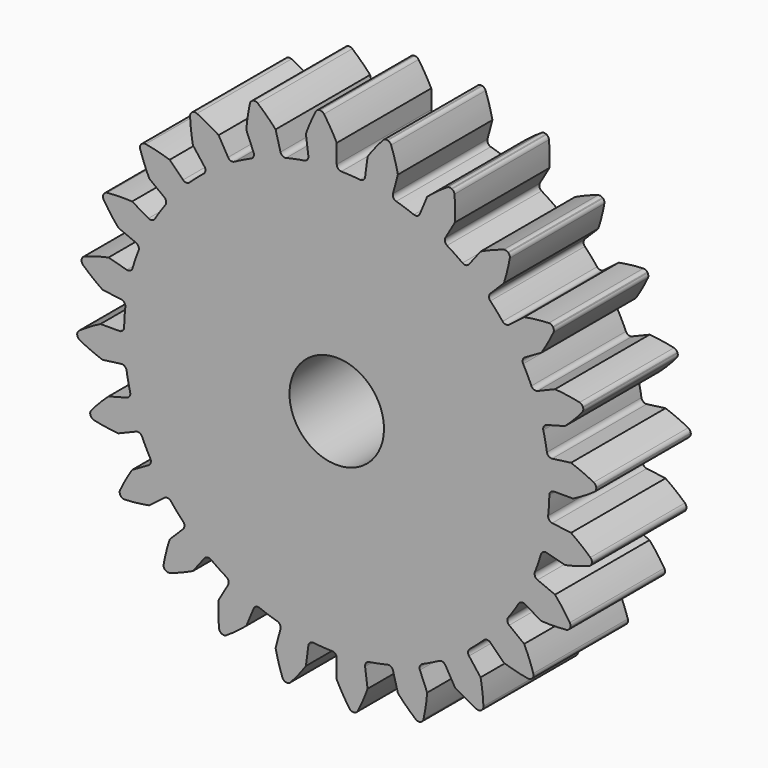
from build123d import *

# Parameters (mm, degrees)
F1_DEPTH = 12.7
F2_R     = 5.08
F3_DEPTH = 12.701


with BuildPart() as f1:
    # F0 (on Front) → F1 (new body)
    with BuildSketch(Plane.XZ):
        with BuildLine():
            ThreePointArc((-3.049415, 23.162608), (-3.146708, 22.791449), (-3.475829, 22.594208))
            ThreePointArc((-3.475829, 22.594208), (-4.459765, 22.420752), (-5.435182, 22.204468))
            ThreePointArc((-5.435182, 22.204468), (-7.348106, 21.646823), (-9.205204, 20.924718))
            ThreePointArc((-9.205204, 20.924718), (-10.110719, 20.502511), (-10.996922, 20.04114))
            ThreePointArc((-10.996922, 20.04114), (-12.700336, 19.007395), (-14.30726, 17.829243))
            ThreePointArc((-14.30726, 17.829243), (-15.072645, 17.187058), (-15.80924, 16.512042))
            ThreePointArc((-15.80924, 16.512042), (-17.187058, 15.072645), (-18.434299, 13.518735))
            ThreePointArc((-18.434299, 13.518735), (-19.007395, 12.700336), (-19.544184, 11.857676))
            ThreePointArc((-19.544184, 11.857676), (-20.502511, 10.110719), (-21.305072, 8.286948))
            ThreePointArc((-21.305072, 8.286948), (-21.646823, 7.348106), (-21.947224, 6.395228))
            ThreePointArc((-21.947224, 6.395228), (-22.420752, 4.459765), (-22.723939, 2.490419))
            ThreePointArc((-22.723939, 2.490419), (-22.811055, 1.495116), (-22.854598, 0.496957))
            ThreePointArc((-22.854598, 0.496957), (-22.811055, -1.495116), (-22.594208, -3.475829))
            ThreePointArc((-22.594208, -3.475829), (-22.420752, -4.459765), (-22.204468, -5.435182))
            ThreePointArc((-22.204468, -5.435182), (-21.646823, -7.348106), (-20.924718, -9.205204))
            ThreePointArc((-20.924718, -9.205204), (-20.502511, -10.110719), (-20.04114, -10.996922))
            ThreePointArc((-20.04114, -10.996922), (-19.007395, -12.700336), (-17.829243, -14.30726))
            ThreePointArc((-17.829243, -14.30726), (-17.187058, -15.072645), (-16.512042, -15.80924))
            ThreePointArc((-16.512042, -15.80924), (-15.072645, -17.187058), (-13.518735, -18.434299))
            ThreePointArc((-13.518735, -18.434299), (-12.700336, -19.007395), (-11.857676, -19.544184))
            ThreePointArc((-11.857676, -19.544184), (-10.110719, -20.502511), (-8.286948, -21.305072))
            ThreePointArc((-8.286948, -21.305072), (-7.348106, -21.646823), (-6.395228, -21.947224))
            ThreePointArc((-6.395228, -21.947224), (-4.459765, -22.420752), (-2.490419, -22.723939))
            ThreePointArc((-2.490419, -22.723939), (-1.495116, -22.811055), (-0.496957, -22.854598))
            ThreePointArc((-0.496957, -22.854598), (1.495116, -22.811055), (3.475829, -22.594208))
            ThreePointArc((3.475829, -22.594208), (4.459765, -22.420752), (5.435182, -22.204468))
            ThreePointArc((5.435182, -22.204468), (7.348106, -21.646823), (9.205204, -20.924718))
            ThreePointArc((9.205204, -20.924718), (10.110719, -20.502511), (10.996922, -20.04114))
            ThreePointArc((10.996922, -20.04114), (12.700336, -19.007395), (14.30726, -17.829243))
            ThreePointArc((14.30726, -17.829243), (15.072645, -17.187058), (15.80924, -16.512042))
            ThreePointArc((15.80924, -16.512042), (17.187058, -15.072645), (18.434299, -13.518735))
            ThreePointArc((18.434299, -13.518735), (19.007395, -12.700336), (19.544184, -11.857676))
            ThreePointArc((19.544184, -11.857676), (20.502511, -10.110719), (21.305072, -8.286948))
            ThreePointArc((21.305072, -8.286948), (21.646823, -7.348106), (21.947224, -6.395228))
            ThreePointArc((21.947224, -6.395228), (22.420752, -4.459765), (22.723939, -2.490419))
            ThreePointArc((22.723939, -2.490419), (22.811055, -1.495116), (22.854598, -0.496957))
            ThreePointArc((22.854598, -0.496957), (22.811055, 1.495116), (22.594208, 3.475829))
            ThreePointArc((22.594208, 3.475829), (22.420752, 4.459765), (22.204468, 5.435182))
            ThreePointArc((22.204468, 5.435182), (21.646823, 7.348106), (20.924718, 9.205204))
            ThreePointArc((20.924718, 9.205204), (20.502511, 10.110719), (20.04114, 10.996922))
            ThreePointArc((20.04114, 10.996922), (19.007395, 12.700336), (17.829243, 14.30726))
            ThreePointArc((17.829243, 14.30726), (17.187058, 15.072645), (16.512042, 15.80924))
            ThreePointArc((16.512042, 15.80924), (15.072645, 17.187058), (13.518735, 18.434299))
            ThreePointArc((13.518735, 18.434299), (12.700336, 19.007395), (11.857676, 19.544184))
            ThreePointArc((11.857676, 19.544184), (10.110719, 20.502511), (8.286948, 21.305072))
            ThreePointArc((8.286948, 21.305072), (7.348106, 21.646823), (6.395228, 21.947224))
            ThreePointArc((6.395228, 21.947224), (4.459765, 22.420752), (2.490419, 22.723939))
            ThreePointArc((2.490419, 22.723939), (1.495116, 22.811055), (0.496957, 22.854598))
            ThreePointArc((0.496957, 22.854598), (0.144906, 23.007193), (0, 23.362478))
            Line((0, 23.362478), (0, 25.4))
            ThreePointArc((0, 25.4), (-0.643904, 26.564648), (-1.367547, 27.6815))
            ThreePointArc((-1.367547, 27.6815), (-1.549174, 27.841027), (-1.78397, 27.898544))
            Line((-1.78397, 27.898544), (-1.828567, 27.898544))
            Line((-1.828567, 27.898544), (-1.872783, 27.892723))
            ThreePointArc((-1.872783, 27.892723), (-2.098062, 27.805051), (-2.257314, 27.623182))
            ThreePointArc((-2.257314, 27.623182), (-2.828987, 26.42143), (-3.315365, 25.182699))
            Line((-3.315365, 25.182699), (-3.049415, 23.162608))
        make_face()
        with BuildLine():
            ThreePointArc((-9.205204, 20.924718), (-7.348106, 21.646823), (-5.435182, 22.204468))
            ThreePointArc((-5.435182, 22.204468), (-5.814731, 22.260747), (-6.046654, 22.56642))
            Line((-6.046654, 22.56642), (-6.574004, 24.534516))
            ThreePointArc((-6.574004, 24.534516), (-7.4974, 25.492825), (-8.485448, 26.384329))
            ThreePointArc((-8.485448, 26.384329), (-8.702175, 26.491411), (-8.943857, 26.486199))
            Line((-8.943857, 26.486199), (-8.986935, 26.474656))
            Line((-8.986935, 26.474656), (-9.028137, 26.457589))
            ThreePointArc((-9.028137, 26.457589), (-9.223049, 26.314598), (-9.329803, 26.097709))
            ThreePointArc((-9.329803, 26.097709), (-9.570961, 24.788946), (-9.720159, 23.46654))
            Line((-9.720159, 23.46654), (-8.940433, 21.584115))
            ThreePointArc((-8.940433, 21.584115), (-8.938348, 21.200422), (-9.205204, 20.924718))
        make_face()
        with BuildLine():
            ThreePointArc((-14.30726, 17.829243), (-12.700336, 19.007395), (-10.996922, 20.04114))
            ThreePointArc((-10.996922, 20.04114), (-11.378104, 19.997267), (-11.681239, 20.232499))
            Line((-11.681239, 20.232499), (-12.7, 21.997045))
            ThreePointArc((-12.7, 21.997045), (-13.839961, 22.683708), (-15.02508, 23.289109))
            ThreePointArc((-15.02508, 23.289109), (-15.262138, 23.336449), (-15.494235, 23.268863))
            Line((-15.494235, 23.268863), (-15.532858, 23.246564))
            Line((-15.532858, 23.246564), (-15.568239, 23.219415))
            ThreePointArc((-15.568239, 23.219415), (-15.719501, 23.030849), (-15.766482, 22.793721))
            ThreePointArc((-15.766482, 22.793721), (-15.66069, 21.467136), (-15.46254, 20.151175))
            Line((-15.46254, 20.151175), (-14.222175, 18.5347))
            ThreePointArc((-14.222175, 18.5347), (-14.120854, 18.16462), (-14.30726, 17.829243))
        make_face()
        with BuildLine():
            ThreePointArc((-18.434299, 13.518735), (-17.187058, 15.072645), (-15.80924, 16.512042))
            ThreePointArc((-15.80924, 16.512042), (-16.166078, 16.371007), (-16.519766, 16.519766))
            Line((-16.519766, 16.519766), (-17.960512, 17.960512))
            ThreePointArc((-17.960512, 17.960512), (-19.239352, 18.328734), (-20.540778, 18.606775))
            ThreePointArc((-20.540778, 18.606775), (-20.782011, 18.591147), (-20.988707, 18.465792))
            Line((-20.988707, 18.465792), (-21.020242, 18.434257))
            Line((-21.020242, 18.434257), (-21.047391, 18.398876))
            ThreePointArc((-21.047391, 18.398876), (-21.144694, 18.177586), (-21.128701, 17.936378))
            ThreePointArc((-21.128701, 17.936378), (-20.683169, 16.682376), (-20.151175, 15.46254))
            Line((-20.151175, 15.46254), (-18.5347, 14.222175))
            ThreePointArc((-18.5347, 14.222175), (-18.341047, 13.89093), (-18.434299, 13.518735))
        make_face()
        with BuildLine():
            ThreePointArc((-21.305072, 8.286948), (-20.502511, 10.110719), (-19.544184, 11.857676))
            ThreePointArc((-19.544184, 11.857676), (-19.852361, 11.629089), (-20.232499, 11.681239))
            Line((-20.232499, 11.681239), (-21.997045, 12.7))
            ThreePointArc((-21.997045, 12.7), (-23.327612, 12.724687), (-24.656656, 12.65642))
            ThreePointArc((-24.656656, 12.65642), (-24.885624, 12.578889), (-25.052833, 12.404309))
            Line((-25.052833, 12.404309), (-25.075131, 12.365686))
            Line((-25.075131, 12.365686), (-25.092198, 12.324484))
            ThreePointArc((-25.092198, 12.324484), (-25.128912, 12.08555), (-25.051034, 11.8567))
            ThreePointArc((-25.051034, 11.8567), (-24.296124, 10.76074), (-23.46654, 9.720159))
            Line((-23.46654, 9.720159), (-21.584115, 8.940433))
            ThreePointArc((-21.584115, 8.940433), (-21.311328, 8.670596), (-21.305072, 8.286948))
        make_face()
        with BuildLine():
            ThreePointArc((-22.723939, 2.490419), (-22.420752, 4.459765), (-21.947224, 6.395228))
            ThreePointArc((-21.947224, 6.395228), (-22.185738, 6.094669), (-22.56642, 6.046654))
            Line((-22.56642, 6.046654), (-24.534516, 6.574004))
            ThreePointArc((-24.534516, 6.574004), (-25.826134, 6.253474), (-27.092223, 5.843551))
            ThreePointArc((-27.092223, 5.843551), (-27.293323, 5.709401), (-27.409649, 5.497492))
            Line((-27.409649, 5.497492), (-27.421192, 5.454414))
            Line((-27.421192, 5.454414), (-27.427013, 5.410199))
            ThreePointArc((-27.427013, 5.410199), (-27.400635, 5.169904), (-27.266181, 4.969008))
            ThreePointArc((-27.266181, 4.969008), (-26.253338, 4.105777), (-25.182699, 3.315365))
            Line((-25.182699, 3.315365), (-23.162608, 3.049415))
            ThreePointArc((-23.162608, 3.049415), (-22.829278, 2.859375), (-22.723939, 2.490419))
        make_face()
        with BuildLine():
            ThreePointArc((-22.594208, -3.475829), (-22.811055, -1.495116), (-22.854598, 0.496957))
            ThreePointArc((-22.854598, 0.496957), (-23.007193, 0.144906), (-23.362478, 0))
            Line((-23.362478, 0), (-25.4, 0))
            ThreePointArc((-25.4, 0), (-26.564648, -0.643904), (-27.6815, -1.367547))
            ThreePointArc((-27.6815, -1.367547), (-27.841027, -1.549174), (-27.898544, -1.78397))
            Line((-27.898544, -1.78397), (-27.898544, -1.828567))
            Line((-27.898544, -1.828567), (-27.892723, -1.872783))
            ThreePointArc((-27.892723, -1.872783), (-27.805051, -2.098062), (-27.623182, -2.257314))
            ThreePointArc((-27.623182, -2.257314), (-26.42143, -2.828987), (-25.182699, -3.315365))
            Line((-25.182699, -3.315365), (-23.162608, -3.049415))
            ThreePointArc((-23.162608, -3.049415), (-22.791449, -3.146708), (-22.594208, -3.475829))
        make_face()
        with BuildLine():
            ThreePointArc((3.049415, 23.162608), (2.859375, 22.829278), (2.490419, 22.723939))
            ThreePointArc((2.490419, 22.723939), (4.459765, 22.420752), (6.395228, 21.947224))
            ThreePointArc((6.395228, 21.947224), (6.094669, 22.185738), (6.046654, 22.56642))
            Line((6.046654, 22.56642), (6.574004, 24.534516))
            ThreePointArc((6.574004, 24.534516), (6.253474, 25.826134), (5.843551, 27.092223))
            ThreePointArc((5.843551, 27.092223), (5.709401, 27.293323), (5.497492, 27.409649))
            Line((5.497492, 27.409649), (5.454414, 27.421192))
            Line((5.454414, 27.421192), (5.410199, 27.427013))
            ThreePointArc((5.410199, 27.427013), (5.169904, 27.400635), (4.969008, 27.266181))
            ThreePointArc((4.969008, 27.266181), (4.105777, 26.253338), (3.315365, 25.182699))
            Line((3.315365, 25.182699), (3.049415, 23.162608))
        make_face()
        with BuildLine():
            ThreePointArc((-20.924718, -9.205204), (-21.646823, -7.348106), (-22.204468, -5.435182))
            ThreePointArc((-22.204468, -5.435182), (-22.260747, -5.814731), (-22.56642, -6.046654))
            Line((-22.56642, -6.046654), (-24.534516, -6.574004))
            ThreePointArc((-24.534516, -6.574004), (-25.492825, -7.4974), (-26.384329, -8.485448))
            ThreePointArc((-26.384329, -8.485448), (-26.491411, -8.702175), (-26.486199, -8.943857))
            Line((-26.486199, -8.943857), (-26.474656, -8.986935))
            Line((-26.474656, -8.986935), (-26.457589, -9.028137))
            ThreePointArc((-26.457589, -9.028137), (-26.314598, -9.223049), (-26.097709, -9.329803))
            ThreePointArc((-26.097709, -9.329803), (-24.788946, -9.570961), (-23.46654, -9.720159))
            Line((-23.46654, -9.720159), (-21.584115, -8.940433))
            ThreePointArc((-21.584115, -8.940433), (-21.200422, -8.938348), (-20.924718, -9.205204))
        make_face()
        with BuildLine():
            ThreePointArc((8.940433, 21.584115), (8.670596, 21.311328), (8.286948, 21.305072))
            ThreePointArc((8.286948, 21.305072), (10.110719, 20.502511), (11.857676, 19.544184))
            ThreePointArc((11.857676, 19.544184), (11.629089, 19.852361), (11.681239, 20.232499))
            Line((11.681239, 20.232499), (12.7, 21.997045))
            ThreePointArc((12.7, 21.997045), (12.724687, 23.327612), (12.65642, 24.656656))
            ThreePointArc((12.65642, 24.656656), (12.578889, 24.885624), (12.404309, 25.052833))
            Line((12.404309, 25.052833), (12.365686, 25.075131))
            Line((12.365686, 25.075131), (12.324484, 25.092198))
            ThreePointArc((12.324484, 25.092198), (12.08555, 25.128912), (11.8567, 25.051034))
            ThreePointArc((11.8567, 25.051034), (10.76074, 24.296124), (9.720159, 23.46654))
            Line((9.720159, 23.46654), (8.940433, 21.584115))
        make_face()
        with BuildLine():
            ThreePointArc((-17.829243, -14.30726), (-19.007395, -12.700336), (-20.04114, -10.996922))
            ThreePointArc((-20.04114, -10.996922), (-19.997267, -11.378104), (-20.232499, -11.681239))
            Line((-20.232499, -11.681239), (-21.997045, -12.7))
            ThreePointArc((-21.997045, -12.7), (-22.683708, -13.839961), (-23.289109, -15.02508))
            ThreePointArc((-23.289109, -15.02508), (-23.336449, -15.262138), (-23.268863, -15.494235))
            Line((-23.268863, -15.494235), (-23.246564, -15.532858))
            Line((-23.246564, -15.532858), (-23.219415, -15.568239))
            ThreePointArc((-23.219415, -15.568239), (-23.030849, -15.719501), (-22.793721, -15.766482))
            ThreePointArc((-22.793721, -15.766482), (-21.467136, -15.66069), (-20.151175, -15.46254))
            Line((-20.151175, -15.46254), (-18.5347, -14.222175))
            ThreePointArc((-18.5347, -14.222175), (-18.16462, -14.120854), (-17.829243, -14.30726))
        make_face()
        with BuildLine():
            ThreePointArc((14.222175, 18.5347), (13.89093, 18.341047), (13.518735, 18.434299))
            ThreePointArc((13.518735, 18.434299), (15.072645, 17.187058), (16.512042, 15.80924))
            ThreePointArc((16.512042, 15.80924), (16.371007, 16.166078), (16.519766, 16.519766))
            Line((16.519766, 16.519766), (17.960512, 17.960512))
            ThreePointArc((17.960512, 17.960512), (18.328734, 19.239352), (18.606775, 20.540778))
            ThreePointArc((18.606775, 20.540778), (18.591147, 20.782011), (18.465792, 20.988707))
            Line((18.465792, 20.988707), (18.434257, 21.020242))
            Line((18.434257, 21.020242), (18.398876, 21.047391))
            ThreePointArc((18.398876, 21.047391), (18.177586, 21.144694), (17.936378, 21.128701))
            ThreePointArc((17.936378, 21.128701), (16.682376, 20.683169), (15.46254, 20.151175))
            Line((15.46254, 20.151175), (14.222175, 18.5347))
        make_face()
        with BuildLine():
            ThreePointArc((-13.518735, -18.434299), (-15.072645, -17.187058), (-16.512042, -15.80924))
            ThreePointArc((-16.512042, -15.80924), (-16.371007, -16.166078), (-16.519766, -16.519766))
            Line((-16.519766, -16.519766), (-17.960512, -17.960512))
            ThreePointArc((-17.960512, -17.960512), (-18.328734, -19.239352), (-18.606775, -20.540778))
            ThreePointArc((-18.606775, -20.540778), (-18.591147, -20.782011), (-18.465792, -20.988707))
            Line((-18.465792, -20.988707), (-18.434257, -21.020242))
            Line((-18.434257, -21.020242), (-18.398876, -21.047391))
            ThreePointArc((-18.398876, -21.047391), (-18.177586, -21.144694), (-17.936378, -21.128701))
            ThreePointArc((-17.936378, -21.128701), (-16.682376, -20.683169), (-15.46254, -20.151175))
            Line((-15.46254, -20.151175), (-14.222175, -18.5347))
            ThreePointArc((-14.222175, -18.5347), (-13.89093, -18.341047), (-13.518735, -18.434299))
        make_face()
        with BuildLine():
            ThreePointArc((18.5347, 14.222175), (18.16462, 14.120854), (17.829243, 14.30726))
            ThreePointArc((17.829243, 14.30726), (19.007395, 12.700336), (20.04114, 10.996922))
            ThreePointArc((20.04114, 10.996922), (19.997267, 11.378104), (20.232499, 11.681239))
            Line((20.232499, 11.681239), (21.997045, 12.7))
            ThreePointArc((21.997045, 12.7), (22.683708, 13.839961), (23.289109, 15.02508))
            ThreePointArc((23.289109, 15.02508), (23.336449, 15.262138), (23.268863, 15.494235))
            Line((23.268863, 15.494235), (23.246564, 15.532858))
            Line((23.246564, 15.532858), (23.219415, 15.568239))
            ThreePointArc((23.219415, 15.568239), (23.030849, 15.719501), (22.793721, 15.766482))
            ThreePointArc((22.793721, 15.766482), (21.467136, 15.66069), (20.151175, 15.46254))
            Line((20.151175, 15.46254), (18.5347, 14.222175))
        make_face()
        with BuildLine():
            ThreePointArc((-8.286948, -21.305072), (-10.110719, -20.502511), (-11.857676, -19.544184))
            ThreePointArc((-11.857676, -19.544184), (-11.629089, -19.852361), (-11.681239, -20.232499))
            Line((-11.681239, -20.232499), (-12.7, -21.997045))
            ThreePointArc((-12.7, -21.997045), (-12.724687, -23.327612), (-12.65642, -24.656656))
            ThreePointArc((-12.65642, -24.656656), (-12.578889, -24.885624), (-12.404309, -25.052833))
            Line((-12.404309, -25.052833), (-12.365686, -25.075131))
            Line((-12.365686, -25.075131), (-12.324484, -25.092198))
            ThreePointArc((-12.324484, -25.092198), (-12.08555, -25.128912), (-11.8567, -25.051034))
            ThreePointArc((-11.8567, -25.051034), (-10.76074, -24.296124), (-9.720159, -23.46654))
            Line((-9.720159, -23.46654), (-8.940433, -21.584115))
            ThreePointArc((-8.940433, -21.584115), (-8.670596, -21.311328), (-8.286948, -21.305072))
        make_face()
        with BuildLine():
            ThreePointArc((21.584115, 8.940433), (21.200422, 8.938348), (20.924718, 9.205204))
            ThreePointArc((20.924718, 9.205204), (21.646823, 7.348106), (22.204468, 5.435182))
            ThreePointArc((22.204468, 5.435182), (22.260747, 5.814731), (22.56642, 6.046654))
            Line((22.56642, 6.046654), (24.534516, 6.574004))
            ThreePointArc((24.534516, 6.574004), (25.492825, 7.4974), (26.384329, 8.485448))
            ThreePointArc((26.384329, 8.485448), (26.491411, 8.702175), (26.486199, 8.943857))
            Line((26.486199, 8.943857), (26.474656, 8.986935))
            Line((26.474656, 8.986935), (26.457589, 9.028137))
            ThreePointArc((26.457589, 9.028137), (26.314598, 9.223049), (26.097709, 9.329803))
            ThreePointArc((26.097709, 9.329803), (24.788946, 9.570961), (23.46654, 9.720159))
            Line((23.46654, 9.720159), (21.584115, 8.940433))
        make_face()
        with BuildLine():
            ThreePointArc((-2.490419, -22.723939), (-4.459765, -22.420752), (-6.395228, -21.947224))
            ThreePointArc((-6.395228, -21.947224), (-6.094669, -22.185738), (-6.046654, -22.56642))
            Line((-6.046654, -22.56642), (-6.574004, -24.534516))
            ThreePointArc((-6.574004, -24.534516), (-6.253474, -25.826134), (-5.843551, -27.092223))
            ThreePointArc((-5.843551, -27.092223), (-5.709401, -27.293323), (-5.497492, -27.409649))
            Line((-5.497492, -27.409649), (-5.454414, -27.421192))
            Line((-5.454414, -27.421192), (-5.410199, -27.427013))
            ThreePointArc((-5.410199, -27.427013), (-5.169904, -27.400635), (-4.969008, -27.266181))
            ThreePointArc((-4.969008, -27.266181), (-4.105777, -26.253338), (-3.315365, -25.182699))
            Line((-3.315365, -25.182699), (-3.049415, -23.162608))
            ThreePointArc((-3.049415, -23.162608), (-2.859375, -22.829278), (-2.490419, -22.723939))
        make_face()
        with BuildLine():
            ThreePointArc((23.162608, 3.049415), (22.791449, 3.146708), (22.594208, 3.475829))
            ThreePointArc((22.594208, 3.475829), (22.811055, 1.495116), (22.854598, -0.496957))
            ThreePointArc((22.854598, -0.496957), (23.007193, -0.144906), (23.362478, 0))
            Line((23.362478, 0), (25.4, 0))
            ThreePointArc((25.4, 0), (26.564648, 0.643904), (27.6815, 1.367547))
            ThreePointArc((27.6815, 1.367547), (27.841027, 1.549174), (27.898544, 1.78397))
            Line((27.898544, 1.78397), (27.898544, 1.828567))
            Line((27.898544, 1.828567), (27.892723, 1.872783))
            ThreePointArc((27.892723, 1.872783), (27.805051, 2.098062), (27.623182, 2.257314))
            ThreePointArc((27.623182, 2.257314), (26.42143, 2.828987), (25.182699, 3.315365))
            Line((25.182699, 3.315365), (23.162608, 3.049415))
        make_face()
        with BuildLine():
            ThreePointArc((3.475829, -22.594208), (1.495116, -22.811055), (-0.496957, -22.854598))
            ThreePointArc((-0.496957, -22.854598), (-0.144906, -23.007193), (0, -23.362478))
            Line((0, -23.362478), (0, -25.4))
            ThreePointArc((0, -25.4), (0.643904, -26.564648), (1.367547, -27.6815))
            ThreePointArc((1.367547, -27.6815), (1.549174, -27.841027), (1.78397, -27.898544))
            Line((1.78397, -27.898544), (1.828567, -27.898544))
            Line((1.828567, -27.898544), (1.872783, -27.892723))
            ThreePointArc((1.872783, -27.892723), (2.098062, -27.805051), (2.257314, -27.623182))
            ThreePointArc((2.257314, -27.623182), (2.828987, -26.42143), (3.315365, -25.182699))
            Line((3.315365, -25.182699), (3.049415, -23.162608))
            ThreePointArc((3.049415, -23.162608), (3.146708, -22.791449), (3.475829, -22.594208))
        make_face()
        with BuildLine():
            ThreePointArc((23.162608, -3.049415), (22.829278, -2.859375), (22.723939, -2.490419))
            ThreePointArc((22.723939, -2.490419), (22.420752, -4.459765), (21.947224, -6.395228))
            ThreePointArc((21.947224, -6.395228), (22.185738, -6.094669), (22.56642, -6.046654))
            Line((22.56642, -6.046654), (24.534516, -6.574004))
            ThreePointArc((24.534516, -6.574004), (25.826134, -6.253474), (27.092223, -5.843551))
            ThreePointArc((27.092223, -5.843551), (27.293323, -5.709401), (27.409649, -5.497492))
            Line((27.409649, -5.497492), (27.421192, -5.454414))
            Line((27.421192, -5.454414), (27.427013, -5.410199))
            ThreePointArc((27.427013, -5.410199), (27.400635, -5.169904), (27.266181, -4.969008))
            ThreePointArc((27.266181, -4.969008), (26.253338, -4.105777), (25.182699, -3.315365))
            Line((25.182699, -3.315365), (23.162608, -3.049415))
        make_face()
        with BuildLine():
            ThreePointArc((9.205204, -20.924718), (7.348106, -21.646823), (5.435182, -22.204468))
            ThreePointArc((5.435182, -22.204468), (5.814731, -22.260747), (6.046654, -22.56642))
            Line((6.046654, -22.56642), (6.574004, -24.534516))
            ThreePointArc((6.574004, -24.534516), (7.4974, -25.492825), (8.485448, -26.384329))
            ThreePointArc((8.485448, -26.384329), (8.702175, -26.491411), (8.943857, -26.486199))
            Line((8.943857, -26.486199), (8.986935, -26.474656))
            Line((8.986935, -26.474656), (9.028137, -26.457589))
            ThreePointArc((9.028137, -26.457589), (9.223049, -26.314598), (9.329803, -26.097709))
            ThreePointArc((9.329803, -26.097709), (9.570961, -24.788946), (9.720159, -23.46654))
            Line((9.720159, -23.46654), (8.940433, -21.584115))
            ThreePointArc((8.940433, -21.584115), (8.938348, -21.200422), (9.205204, -20.924718))
        make_face()
        with BuildLine():
            ThreePointArc((21.584115, -8.940433), (21.311328, -8.670596), (21.305072, -8.286948))
            ThreePointArc((21.305072, -8.286948), (20.502511, -10.110719), (19.544184, -11.857676))
            ThreePointArc((19.544184, -11.857676), (19.852361, -11.629089), (20.232499, -11.681239))
            Line((20.232499, -11.681239), (21.997045, -12.7))
            ThreePointArc((21.997045, -12.7), (23.327612, -12.724687), (24.656656, -12.65642))
            ThreePointArc((24.656656, -12.65642), (24.885624, -12.578889), (25.052833, -12.404309))
            Line((25.052833, -12.404309), (25.075131, -12.365686))
            Line((25.075131, -12.365686), (25.092198, -12.324484))
            ThreePointArc((25.092198, -12.324484), (25.128912, -12.08555), (25.051034, -11.8567))
            ThreePointArc((25.051034, -11.8567), (24.296124, -10.76074), (23.46654, -9.720159))
            Line((23.46654, -9.720159), (21.584115, -8.940433))
        make_face()
        with BuildLine():
            ThreePointArc((14.30726, -17.829243), (12.700336, -19.007395), (10.996922, -20.04114))
            ThreePointArc((10.996922, -20.04114), (11.378104, -19.997267), (11.681239, -20.232499))
            Line((11.681239, -20.232499), (12.7, -21.997045))
            ThreePointArc((12.7, -21.997045), (13.839961, -22.683708), (15.02508, -23.289109))
            ThreePointArc((15.02508, -23.289109), (15.262138, -23.336449), (15.494235, -23.268863))
            Line((15.494235, -23.268863), (15.532858, -23.246564))
            Line((15.532858, -23.246564), (15.568239, -23.219415))
            ThreePointArc((15.568239, -23.219415), (15.719501, -23.030849), (15.766482, -22.793721))
            ThreePointArc((15.766482, -22.793721), (15.66069, -21.467136), (15.46254, -20.151175))
            Line((15.46254, -20.151175), (14.222175, -18.5347))
            ThreePointArc((14.222175, -18.5347), (14.120854, -18.16462), (14.30726, -17.829243))
        make_face()
        with BuildLine():
            ThreePointArc((18.5347, -14.222175), (18.341047, -13.89093), (18.434299, -13.518735))
            ThreePointArc((18.434299, -13.518735), (17.187058, -15.072645), (15.80924, -16.512042))
            ThreePointArc((15.80924, -16.512042), (16.166078, -16.371007), (16.519766, -16.519766))
            Line((16.519766, -16.519766), (17.960512, -17.960512))
            ThreePointArc((17.960512, -17.960512), (19.239352, -18.328734), (20.540778, -18.606775))
            ThreePointArc((20.540778, -18.606775), (20.782011, -18.591147), (20.988707, -18.465792))
            Line((20.988707, -18.465792), (21.020242, -18.434257))
            Line((21.020242, -18.434257), (21.047391, -18.398876))
            ThreePointArc((21.047391, -18.398876), (21.144694, -18.177586), (21.128701, -17.936378))
            ThreePointArc((21.128701, -17.936378), (20.683169, -16.682376), (20.151175, -15.46254))
            Line((20.151175, -15.46254), (18.5347, -14.222175))
        make_face()
    extrude(amount=F1_DEPTH)

    # F2 (on face) → F3 (cut, through all)
    with BuildSketch(Plane.XZ.offset(12.7)):
        Circle(F2_R)
    extrude(amount=-F3_DEPTH, mode=Mode.SUBTRACT)


solid = f1.part
